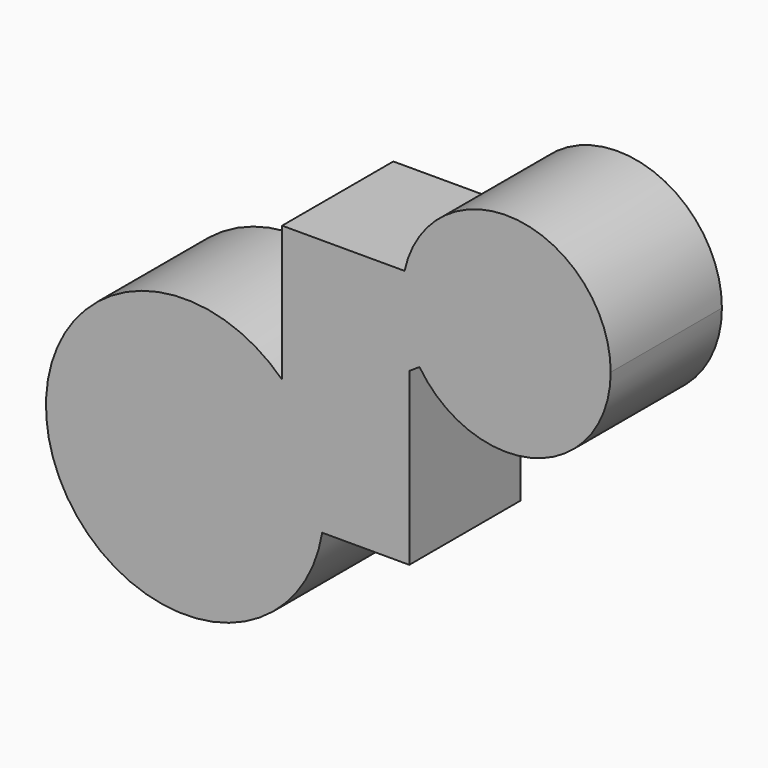
from build123d import *

# Parameters (mm, degrees)
F1_DEPTH = 25.4


with BuildPart() as f1:
    # F0 (on Front) → F1 (new body)
    with BuildSketch(Plane.XZ):
        with BuildLine():
            ThreePointArc((1.8673827959, 32.4323775117), (23.2426437423, 24.7104189311), (36.799872741, 42.9513609771))
            ThreePointArc((36.799872741, 42.9513609771), (19.7876276974, 61.892059347), (-0.8641750005, 47.0034871694))
            Line((-0.8641750005, 47.0034871694), (0, 47.0034871694))
            Line((0, 47.0034871694), (0, 36.0343878183))
            ThreePointArc((0, 36.0343878183), (0.8375229775, 34.1835262685), (1.8673827959, 32.4323775117))
        make_face()
        with BuildLine():
            Line((0, 47.0034871694), (-0.8641750005, 47.0034871694))
            ThreePointArc((-0.8641750005, 47.0034871694), (-1.2412821306, 41.4551869754), (0, 36.0343878183))
            Line((0, 36.0343878183), (0, 47.0034871694))
        make_face()
        with BuildLine():
            ThreePointArc((0, 36.0343878183), (-1.2412821306, 41.4551869754), (-0.8641750005, 47.0034871694))
            Line((-0.8641750005, 47.0034871694), (-23.2337535647, 47.0034871694))
            Line((-23.2337535647, 47.0034871694), (-23.2337535647, 22.2208360441))
            ThreePointArc((-23.2337535647, 22.2208360441), (-21.4104164375, 20.2400678606), (-19.8069730457, 18.0774374795))
            Line((-19.8069730457, 18.0774374795), (0, 31.1956086661))
            Line((0, 31.1956086661), (0, 36.0343878183))
        make_face()
        with BuildLine():
            Line((0, 31.1956086661), (1.8673827959, 32.4323775117))
            ThreePointArc((1.8673827959, 32.4323775117), (0.8375229775, 34.1835262685), (0, 36.0343878183))
            Line((0, 36.0343878183), (0, 31.1956086661))
        make_face()
        with BuildLine():
            Line((0, 0), (0, 31.1956086661))
            Line((0, 31.1956086661), (-19.8069730457, 18.0774374795))
            ThreePointArc((-19.8069730457, 18.0774374795), (-16.6623702443, 11.3758208608), (-15.5836263057, 4.0521261923))
            ThreePointArc((-15.5836263057, 4.0521261923), (-15.6650834504, 2.0195446596), (-15.9089324228, 0))
            Line((-15.9089324228, 0), (0, 0))
        make_face()
        with BuildLine():
            Line((-23.2337535647, 15.8078785033), (-23.2337535647, 22.2208360441))
            ThreePointArc((-23.2337535647, 22.2208360441), (-65.1067949461, -3.8997751366), (-15.9089324228, 0))
            Line((-15.9089324228, 0), (-23.2337535647, 0))
            Line((-23.2337535647, 0), (-23.2337535647, 15.8078785033))
        make_face()
        with BuildLine():
            ThreePointArc((-19.8069730457, 18.0774374795), (-21.4104164375, 20.2400678606), (-23.2337535647, 22.2208360441))
            Line((-23.2337535647, 22.2208360441), (-23.2337535647, 15.8078785033))
            Line((-23.2337535647, 15.8078785033), (-19.8069730457, 18.0774374795))
        make_face()
        with BuildLine():
            ThreePointArc((-15.5836263057, 4.0521261923), (-16.6623702443, 11.3758208608), (-19.8069730457, 18.0774374795))
            Line((-19.8069730457, 18.0774374795), (-23.2337535647, 15.8078785033))
            Line((-23.2337535647, 15.8078785033), (-23.2337535647, 0))
            Line((-23.2337535647, 0), (-15.9089324228, 0))
            ThreePointArc((-15.9089324228, 0), (-15.6650834504, 2.0195446596), (-15.5836263057, 4.0521261923))
        make_face()
    extrude(amount=F1_DEPTH)


solid = f1.part
